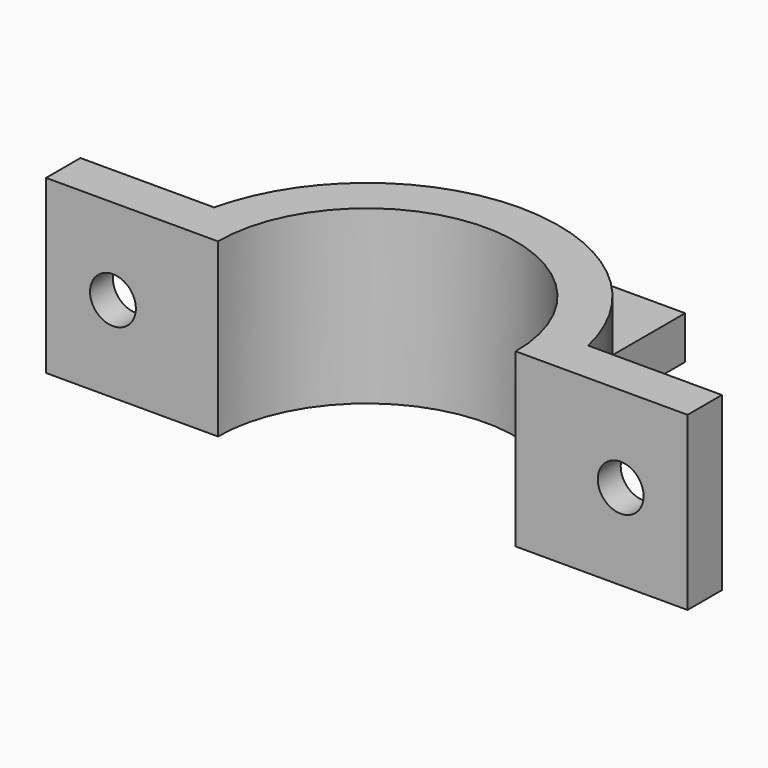
from build123d import *

# Parameters (mm, degrees)
PAD_DEPTH       = 12
POCKET_DEPTH    = 9
SKETCH002_R     = 2.1
POCKET001_DEPTH = 3
SKETCH003_R     = 1.6
POCKET002_DEPTH = 3.001
SKETCH004_R     = 3.2
POCKET003_DEPTH = 1


with BuildPart() as part:
    # Sketch → Pad (new body)
    with BuildSketch(Plane.XY):
        with BuildLine():
            ThreePointArc((10.4, 0), (0, 10.4), (-10.4, 0))
            Line((-10.4, 0), (-22.4, 0))
            Line((-22.4, 0), (-22.4, 3))
            Line((-22.4, 3), (-13.059862, 3))
            ThreePointArc((-4, 12.789058), (-9.834436, 9.10186), (-13.059862, 3))
            Line((-4, 12.789058), (-4, 22.789058))
            Line((-4, 22.789058), (4, 22.789058))
            Line((4, 22.789058), (4, 12.789058))
            ThreePointArc((13.059862, 3), (9.834436, 9.10186), (4, 12.789058))
            Line((22.4, 3), (13.059862, 3))
            Line((22.4, 0), (22.4, 3))
            Line((10.4, 0), (22.4, 0))
        make_face()
    extrude(amount=PAD_DEPTH)

    # Sketch001 (on Face14 of Pad) → Pocket (cut)
    with BuildSketch(Plane.XY.offset(12)):
        with BuildLine():
            Line((-4, 12.789058), (-4, 22.789058))
            Line((-4, 22.789058), (4, 22.789058))
            Line((4, 22.789058), (4, 12.789058))
            ThreePointArc((4, 12.789058), (0, 13.4), (-4, 12.789058))
        make_face()
    extrude(amount=-POCKET_DEPTH, mode=Mode.SUBTRACT)

    # Sketch002 (on Face16 of Pocket) → Pocket001 (cut)
    with BuildSketch(Plane.XY.offset(3)):
        with Locations((0, 18.094529)):
            Circle(SKETCH002_R)
    extrude(amount=-POCKET001_DEPTH, mode=Mode.SUBTRACT)

    # Sketch003 (on Face9 of Pocket001) → Pocket002 (cut, through all)
    with BuildSketch(Plane(origin=(0, 3, 0), x_dir=(-1, 0, 0), z_dir=(0, 1, 0))):
        with Locations((-17.729931, 6)):
            Circle(SKETCH003_R)
        with Locations((17.729931, 6)):
            Circle(SKETCH003_R)
    extrude(amount=-POCKET002_DEPTH, mode=Mode.SUBTRACT)

    # Sketch004 (on Face11 of Pocket002) → Pocket003 (cut)
    with BuildSketch(Plane(origin=(0, 3, 0), x_dir=(-1, 0, 0), z_dir=(0, 1, 0))):
        with Locations((-17.729931, 6)):
            Circle(SKETCH004_R)
        with Locations((17.729931, 6)):
            Circle(SKETCH004_R)
    extrude(amount=-POCKET003_DEPTH, mode=Mode.SUBTRACT)


solid = part.part
